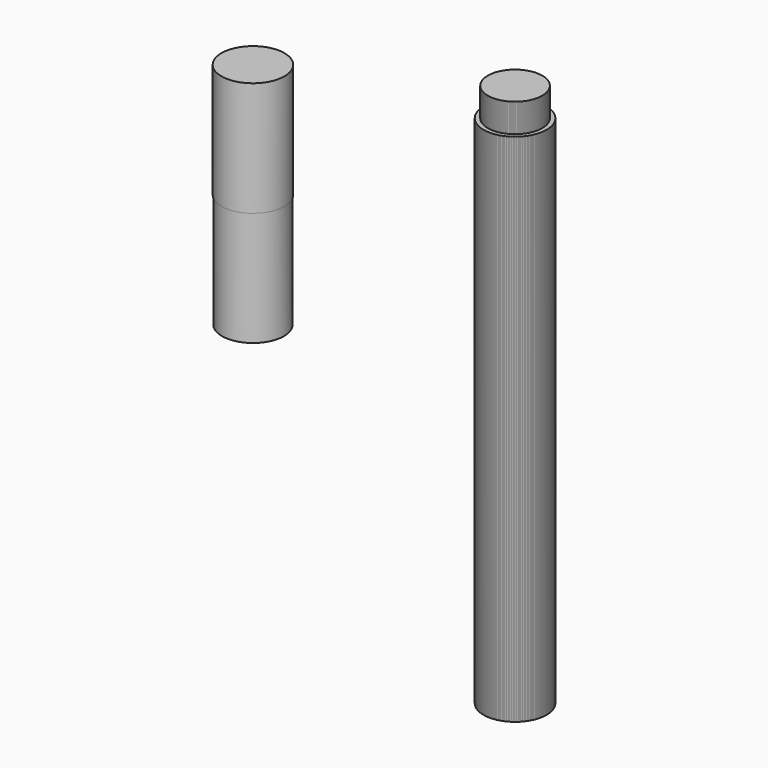
from build123d import *

# Parameters (mm, degrees)
F0_R      = 11
F1_DEPTH  = 180
F2_R      = 9.5
F3_DEPTH  = 10
F4_R      = 9
F5_DEPTH  = 68
F6_COUNT  = 4
F7_R      = 11
F8_DEPTH  = 40
F9_R      = 10.808602
F10_DEPTH = 40


with BuildPart() as f1:
    # F0 (on Top) → F1 (new body)
    with BuildSketch(Plane.XY):
        Circle(F0_R)
    extrude(amount=F1_DEPTH)

    # F2 (on face) → F3 (join)
    with BuildSketch(Plane.XY.offset(180)):
        Circle(F2_R)
    extrude(amount=F3_DEPTH)

    # F4 (on face) → F5 (cut)
    with BuildSketch(Plane(origin=(0, 0, 0), x_dir=(1, 0, 0), z_dir=(0, 0, -1))):
        Circle(F4_R)
    extrude(amount=-F5_DEPTH, mode=Mode.SUBTRACT)


with BuildPart() as f6_1:
    # F6: instance of F1
    add(f1.part.rotate(Axis((0, 0, 0), (0, 0, -1)), 1 * 360 / F6_COUNT))


with BuildPart() as f6_2:
    # F6: instance of F1
    add(f1.part.rotate(Axis((0, 0, 0), (0, 0, -1)), 2 * 360 / F6_COUNT))


with BuildPart() as f6_3:
    # F6: instance of F1
    add(f1.part.rotate(Axis((0, 0, 0), (0, 0, -1)), 3 * 360 / F6_COUNT))


with BuildPart() as f8:
    # F7 (on face) → F8 (new body)
    with BuildSketch(Plane.XY.offset(190)):
        with Locations((-63.571088, -35.016701)):
            Circle(F7_R)
    extrude(amount=-F8_DEPTH)

    # F9 (on face) → F10 (join)
    with BuildSketch(Plane(origin=(0, 0, 150), x_dir=(1, 0, 0), z_dir=(0, 0, -1))):
        with Locations((-63.571088, 35.016701)):
            Circle(F9_R)
    extrude(amount=F10_DEPTH)


solid = Compound([f1.part, f6_1.part, f6_2.part, f6_3.part, f8.part])
